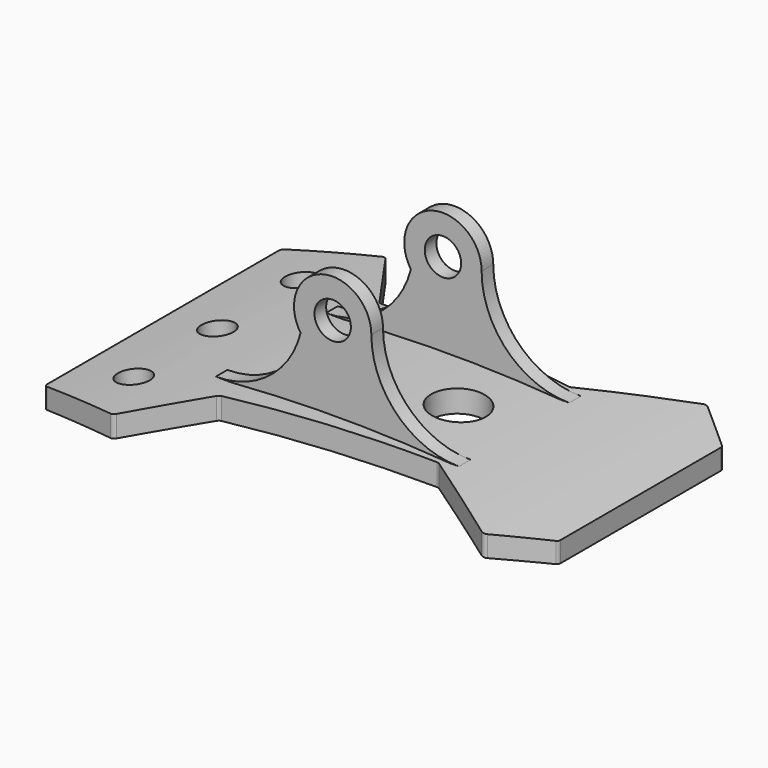
from build123d import *

# Parameters (mm, degrees)
SKETCH_R        = 3.5
SKETCH_R_2      = 6
PAD_DEPTH       = 9
POCKET001_DEPTH = 75
POCKET_DEPTH    = 75
SKETCH003_R     = 4
PAD001_DEPTH    = 3.2


with BuildPart() as part:
    # Sketch → Pad (new body)
    with BuildSketch(Plane.XY):
        with BuildLine():
            Line((-34.169398, 37.323843), (-51.754493, 32.696186))
            ThreePointArc((-51.754493, 32.696186), (-52.291989, 32.339647), (-52.5, 31.729111))
            Line((-52.5, 31.729111), (-52.5, -31.729111))
            ThreePointArc((-52.5, -31.729111), (-52.291989, -32.339647), (-51.754493, -32.696186))
            Line((-51.754493, -32.696186), (-34.169398, -37.323843))
            ThreePointArc((-34.169398, -37.323843), (-33.573754, -37.296777), (-33.099398, -36.935515))
            Line((-33.099398, -36.935515), (-22.767161, -22.376454))
            ThreePointArc((-22.040194, -21.959128), (-22.449515, -22.087944), (-22.767161, -22.376454))
            Line((-22.040194, -21.959128), (22.160937, -18.030139))
            ThreePointArc((22.787034, -18.182984), (22.486636, -18.054741), (22.160937, -18.030139))
            Line((22.787034, -18.182984), (41.886908, -30.359154))
            ThreePointArc((41.886908, -30.359154), (42.485559, -30.514059), (43.060848, -30.2873))
            Line((43.060848, -30.2873), (52.136383, -22.799984))
            ThreePointArc((52.136383, -22.799984), (52.404539, -22.455001), (52.5, -22.028611))
            Line((52.5, -22.028611), (52.5, 22.028611))
            ThreePointArc((52.5, 22.028611), (52.404539, 22.455001), (52.136383, 22.799984))
            Line((52.136383, 22.799984), (43.060848, 30.2873))
            ThreePointArc((43.060848, 30.2873), (42.485559, 30.514059), (41.886908, 30.359154))
            Line((41.886908, 30.359154), (22.787034, 18.182984))
            ThreePointArc((22.160937, 18.030139), (22.486636, 18.054741), (22.787034, 18.182984))
            Line((22.160937, 18.030139), (-22.040194, 21.959128))
            ThreePointArc((-22.767161, 22.376454), (-22.449515, 22.087944), (-22.040194, 21.959128))
            Line((-22.767161, 22.376454), (-33.099398, 36.935515))
            ThreePointArc((-33.099398, 36.935515), (-33.573754, 37.296777), (-34.169398, 37.323843))
        make_face()
        with Locations((-40.5, 0)):
            Circle(SKETCH_R, mode=Mode.SUBTRACT)
        with Locations((-40.5, 23)):
            Circle(SKETCH_R, mode=Mode.SUBTRACT)
        with Locations((-40.5, -23)):
            Circle(SKETCH_R, mode=Mode.SUBTRACT)
        with Locations((12.5, 0)):
            Circle(SKETCH_R_2, mode=Mode.SUBTRACT)
    extrude(amount=PAD_DEPTH)

    # Sketch006 → Pocket001 (cut)
    with BuildSketch(Plane.XZ.offset(37.5)):
        with BuildLine():
            ThreePointArc((52.5, 4.5), (0, 8.9), (-52.5, 4.5))
            Line((-52.5, 4.5), (-52.5, 9))
            Line((52.5, 9), (-52.5, 9))
            Line((52.5, 4.5), (52.5, 9))
        make_face()
    extrude(amount=-POCKET001_DEPTH, mode=Mode.SUBTRACT)

    # Sketch005 → Pocket (cut)
    with BuildSketch(Plane.XZ.offset(37.5)):
        with BuildLine():
            ThreePointArc((52.516865, 0), (0.003551, 4.000338), (-52.509762, 0))
            Line((-52.509762, 0), (52.516865, 0))
        make_face()
    extrude(amount=-POCKET_DEPTH, mode=Mode.SUBTRACT)

    # Sketch003 (on DatumPlane) → Pad001 (join)
    with BuildSketch(Plane.XZ.offset(13.55)):
        with BuildLine():
            ThreePointArc((6.737796, 27.25), (-4.240883, 35.380569), (-8.816593, 22.508102))
            ThreePointArc((-27.473413, 8), (-15.656455, 12.053882), (-8.816593, 22.508102))
            Line((-27.473413, 8), (25.987796, 8))
            ThreePointArc((6.737796, 27.25), (12.37599, 13.638194), (25.987796, 8))
        make_face()
        with Locations((-1.762204, 27.25)):
            Circle(SKETCH003_R, mode=Mode.SUBTRACT)
    pad001 = extrude(amount=PAD001_DEPTH)

    # Mirrored: Pad001 across XZ
    add(pad001.mirror(Plane.XZ))


solid = part.part
